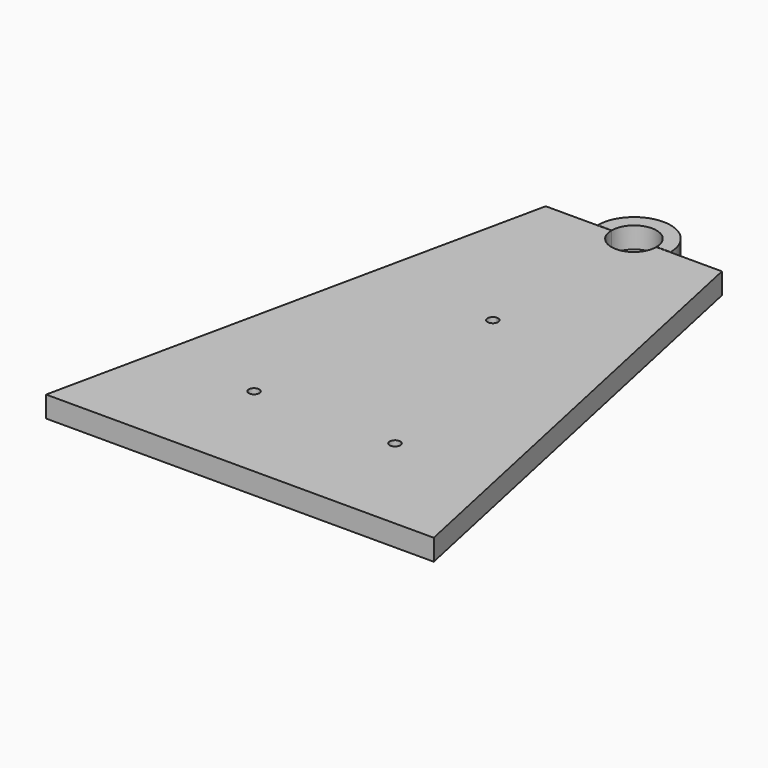
from build123d import *

# Parameters (mm, degrees)
F0_R     = 1.5
F1_DEPTH = 6
F3_DEPTH = 6


with BuildPart() as f1:
    # F0 (on Top) → F1 (new body)
    with BuildSketch(Plane.XY):
        with BuildLine():
            Line((-55, -30), (0, -30))
            Line((0, -30), (55, -30))
            Line((55, -30), (25, 109.7))
            Line((25, 109.7), (6.35, 109.7))
            ThreePointArc((6.35, 109.7), (4.490128, 105.209872), (0, 103.35))
            ThreePointArc((0, 103.35), (-4.490128, 105.209872), (-6.35, 109.7))
            Line((-6.35, 109.7), (-25, 109.7))
            Line((-25, 109.7), (-55, -30))
        make_face()
        with Locations((-20, 0)):
            Circle(F0_R, mode=Mode.SUBTRACT)
        with BuildLine():
            ThreePointArc((21.5, 0), (20, -1.5), (18.5, 0))
            ThreePointArc((18.5, 0), (20, 1.5), (21.5, 0))
        make_face(mode=Mode.SUBTRACT)
        with BuildLine():
            ThreePointArc((1.5, 59.7), (-1.06066, 58.63934), (0, 61.2))
            ThreePointArc((0, 61.2), (1.06066, 60.76066), (1.5, 59.7))
        make_face(mode=Mode.SUBTRACT)
    extrude(amount=F1_DEPTH)


with BuildPart() as f3:
    # F2 (on face) → F3 (new body)
    with BuildSketch(Plane(origin=(0, 0, 0), x_dir=(1, 0, 0), z_dir=(0, 0, -1))):
        with BuildLine():
            ThreePointArc((6.35, -109.8), (0, -116.15), (-6.35, -109.8))
            Line((-6.35, -109.8), (-10.35, -109.8))
            ThreePointArc((-10.35, -109.8), (0, -120.15), (10.35, -109.8))
            Line((10.35, -109.8), (6.35, -109.8))
        make_face()
    extrude(amount=-F3_DEPTH)


solid = Compound([f1.part, f3.part])
